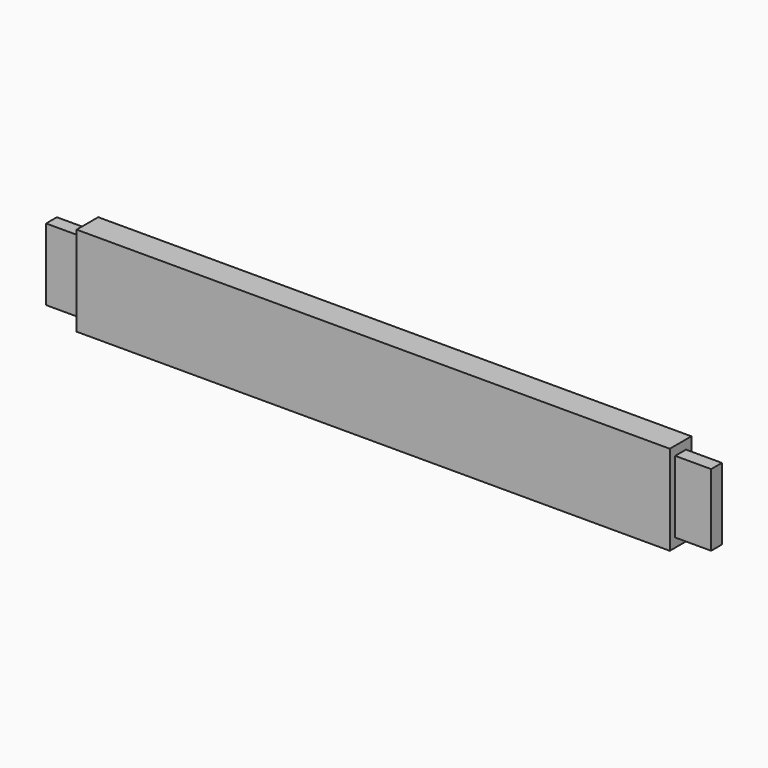
from build123d import *

# Parameters (mm, degrees)
F0_W     = 419.1
F0_H     = 63.5
F1_DEPTH = 19.05
F2_W     = 9.525
F2_H     = 50.8
F3_DEPTH = 25.4
F4_W     = 9.525
F4_H     = 50.8
F5_DEPTH = 25.4


with BuildPart() as f1:
    # F0 (on Front) → F1 (new body)
    with BuildSketch(Plane.XZ):
        with Locations((0, -31.75)):
            Rectangle(F0_W, F0_H)
    extrude(amount=F1_DEPTH)

    # F2 (on face) → F3 (join)
    with BuildSketch(Plane.YZ.offset(209.55)):
        with Locations((-9.525, -31.75)):
            Rectangle(F2_W, F2_H)
    extrude(amount=F3_DEPTH)

    # F4 (on face) → F5 (join)
    with BuildSketch(Plane(origin=(-209.55, 0, 0), x_dir=(0, -1, 0), z_dir=(-1, 0, 0))):
        with Locations((9.525, -31.75)):
            Rectangle(F4_W, F4_H)
    extrude(amount=F5_DEPTH)


solid = f1.part
